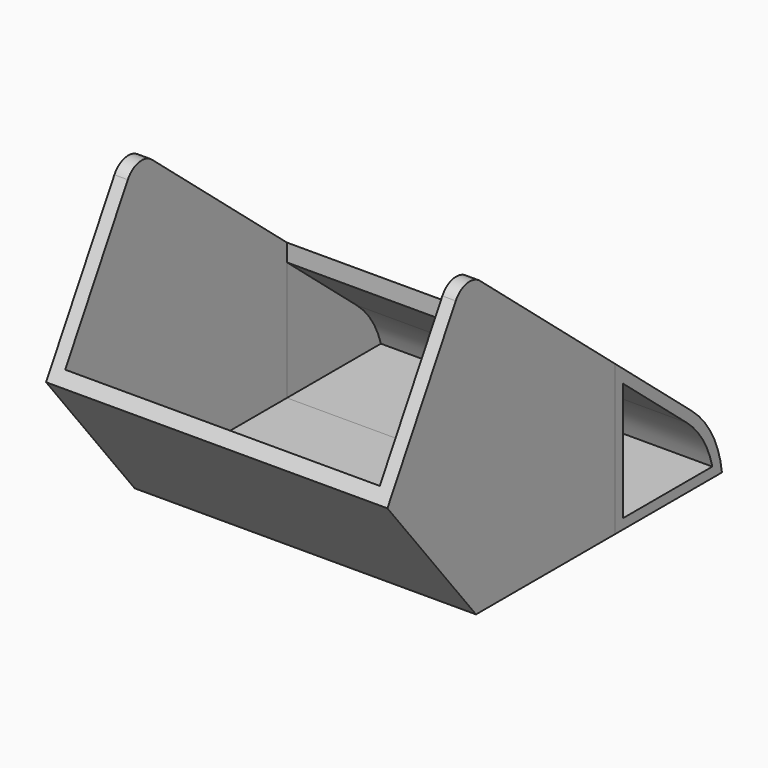
from build123d import *

# Parameters (mm, degrees)
F1_DEPTH = 51
F2_DEPTH = 51
F3_T     = -2
F4_DEPTH = 25
F5_DEPTH = 25
F6_T     = -2
F7_T     = -1.5


with BuildPart() as f1:
    # F0 (on Right) → F1 (new body)
    with BuildSketch(Plane.YZ):
        with BuildLine():
            Line((-3.7880441666, 42.7807628889), (-16.5462800706, 20.6828500882))
            Line((-16.5462800706, 20.6828500882), (0, 0))
            Line((0, 0), (25.926308784, 0))
            Line((25.926308784, 0), (25.926308784, 22.4437269461))
            Line((25.926308784, 22.4437269461), (0.7383948738, 43.5788962182))
            ThreePointArc((0.7383948738, 43.5788962182), (-1.7109124882, 44.2351861479), (-3.7880441666, 42.7807628889))
        make_face()
    extrude(amount=-F1_DEPTH)

    # F3
    f3_openings = [f1.faces().sort_by_distance(p)[0] for p in [
        (-25.5, 13.332352, 33.011312),
        (-25.5, -10.167162, 31.731806),
        (-25.5, -1.710912, 44.235186),
        (-25.5, 25.926309, 11.221863),
    ]]
    offset(amount=F3_T, openings=f3_openings)


with BuildPart() as f2:
    # F0 (on Right) → F2 (new body)
    with BuildSketch(Plane.YZ):
        with BuildLine():
            Line((25.926308784, 22.4437269461), (25.926308784, 0))
            Line((25.926308784, 0), (45.926308784, 0))
            ThreePointArc((45.926308784, 0), (44.1133491535, 5.7160394907), (40.32335206, 10.3631732431))
            Line((40.32335206, 10.3631732431), (25.926308784, 22.4437269461))
        make_face()
    extrude(amount=-F2_DEPTH)

    # F0 (on Right) → F4 (cut)
    with BuildSketch(Plane.YZ):
        with BuildLine():
            Line((25.926308784, 22.4437269461), (25.926308784, 0))
            Line((25.926308784, 0), (45.926308784, 0))
            ThreePointArc((45.926308784, 0), (44.1133491535, 5.7160394907), (40.32335206, 10.3631732431))
            Line((40.32335206, 10.3631732431), (25.926308784, 22.4437269461))
        make_face()
    extrude(amount=-F4_DEPTH, mode=Mode.SUBTRACT)

    # F6
    f6_openings = [f2.faces().sort_by_distance(p)[0] for p in [
        (-38, 25.926309, 11.221863),
        (-25, 33.661047, 7.927277),
    ]]
    offset(amount=F6_T, openings=f6_openings)


with BuildPart() as f5:
    # F0 (on Right) → F5 (new body)
    with BuildSketch(Plane.YZ):
        with BuildLine():
            Line((25.926308784, 22.4437269461), (25.926308784, 0))
            Line((25.926308784, 0), (45.926308784, 0))
            ThreePointArc((45.926308784, 0), (44.1133491535, 5.7160394907), (40.32335206, 10.3631732431))
            Line((40.32335206, 10.3631732431), (25.926308784, 22.4437269461))
        make_face()
    extrude(amount=-F5_DEPTH)

    # F7
    f7_openings = [f5.faces().sort_by_distance(p)[0] for p in [
        (0, 33.661047, 7.927277),
    ]]
    offset(amount=F7_T, openings=f7_openings)


solid = Compound([f1.part, f2.part, f5.part])
